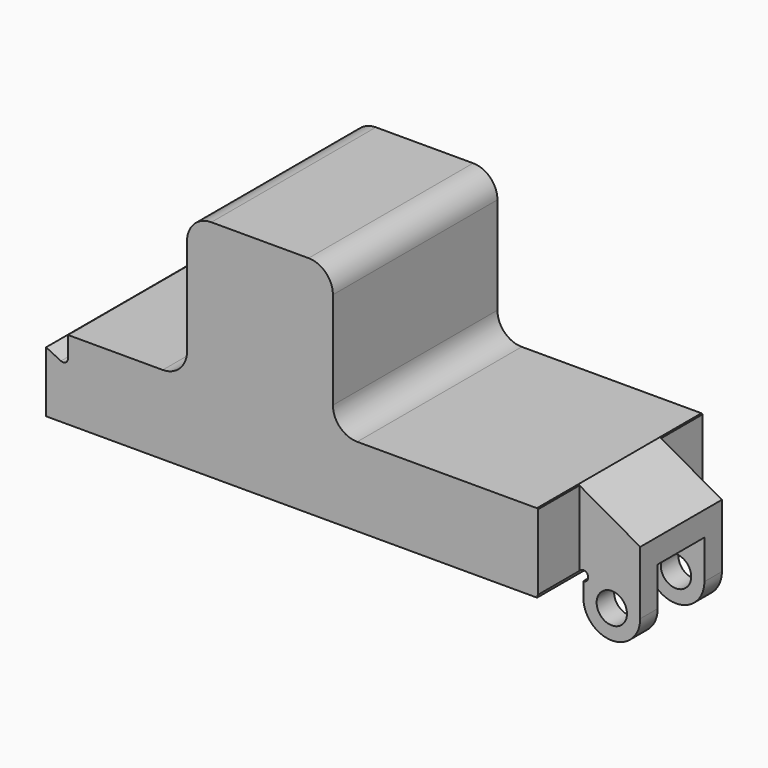
from build123d import *

# Parameters (mm, degrees)
F0_R     = 0.79375
F1_DEPTH = 10.7442
F2_W     = 2.7051
F2_H     = 1.8288
F2_H_2   = 3.302
F2_H_3   = 1.4859
F3_DEPTH = 3.175
F4_R     = 2.413
F5_DEPTH = 11.43
F6_R     = 1.27
F7_R     = 0.254
F8_W     = 3.048
F8_H     = 2.032
F8_H_2   = 1.4859
F9_DEPTH = 28.8808


with BuildPart() as f1:
    # F0 (on Front) → F1 (new body)
    with BuildSketch(Plane.XZ):
        with BuildLine():
            Line((-11.176, 3.175), (-11.176, 0))
            Line((-11.176, 0), (14.478, 0))
            ThreePointArc((14.478, 0), (14.9116051224, 0.1796051224), (14.732, -0.254))
            Line((14.732, -0.254), (14.732, -1.016))
            ThreePointArc((14.732, -1.016), (16.2179, -2.5019), (17.7038, -1.016))
            Line((17.7038, -1.016), (17.7038, 2.286))
            Line((17.7038, 2.286), (14.4678382203, 4.1148))
            Line((14.4678382203, 4.1148), (3.81, 4.1148))
            Line((3.81, 4.1148), (3.81, 11.7348))
            Line((3.81, 11.7348), (-3.81, 11.7348))
            Line((-3.81, 11.7348), (-3.81, 4.1148))
            Line((-3.81, 4.1148), (-10.033, 4.1148))
            Line((-10.033, 4.1148), (-10.033, 2.6214198342))
            Line((-10.033, 2.6214198342), (-11.176, 3.175))
        make_face()
        with Locations((16.2179, -1.016)):
            Circle(F0_R, mode=Mode.SUBTRACT)
    extrude(amount=F1_DEPTH)

    # F2 (on face) → F3 (cut)
    with BuildSketch(Plane.YZ.offset(17.7038)):
        with Locations((-9.39165, 3.2004)):
            Rectangle(F2_W, F2_H)
        with Locations((-9.39165, 0.635)):
            Rectangle(F2_W, F2_H_2)
        with Locations((-9.39165, -1.75895)):
            Rectangle(F2_W, F2_H_3)
        with Locations((-1.35255, 3.2004)):
            Rectangle(F2_W, F2_H)
        with Locations((-1.35255, 0.635)):
            Rectangle(F2_W, F2_H_2)
        with Locations((-1.35255, -1.75895)):
            Rectangle(F2_W, F2_H_3)
    extrude(amount=-F3_DEPTH, mode=Mode.SUBTRACT)

    # F4 (on face) → F5 (cut)
    with BuildSketch(Plane(origin=(0, 0, 0), x_dir=(1, 0, 0), z_dir=(0, 0, -1))):
        with Locations((0, 5.3721)):
            Circle(F4_R)
    extrude(amount=-F5_DEPTH, mode=Mode.SUBTRACT)

    # F6
    f6_edges = [f1.edges().sort_by_distance(p)[0] for p in [
        (-3.81, -5.3721, 4.1148),
        (3.81, -5.3721, 4.1148),
        (-3.81, -5.3721, 11.7348),
        (3.81, -5.3721, 11.7348),
    ]]
    fillet(f6_edges, radius=F6_R)

    # F7
    f7_edges = [f1.edges().sort_by_distance(p)[0] for p in [
        (-10.033, -5.3721, 2.62142),
    ]]
    fillet(f7_edges, radius=F7_R)

    # F8 (on face) → F9 (cut, through all)
    with BuildSketch(Plane.YZ.offset(17.7038)):
        with Locations((-5.3721, 0)):
            Rectangle(F8_W, F8_H)
        with Locations((-5.3721, -1.75895)):
            Rectangle(F8_W, F8_H_2)
    extrude(amount=-F9_DEPTH, mode=Mode.SUBTRACT)


solid = f1.part
